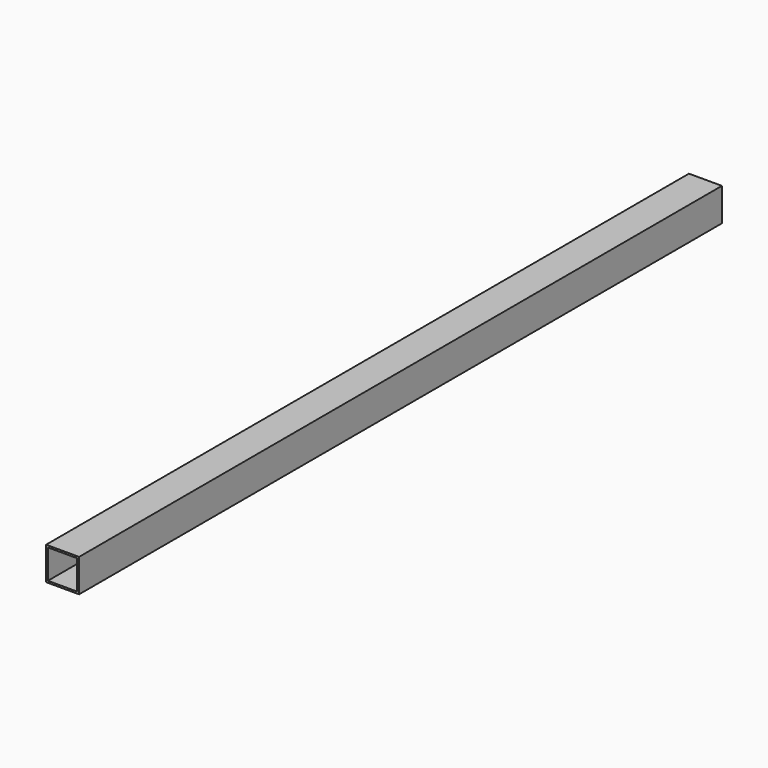
from build123d import *

# Parameters (mm, degrees)
F0_W     = 28.75
F0_H     = 28.75
F1_DEPTH = 700
F2_T     = -1.6


with BuildPart() as f1:
    # F0 (on Front) → F1 (new body)
    with BuildSketch(Plane.XZ):
        Rectangle(F0_W, F0_H)
    extrude(amount=F1_DEPTH)

    # F2
    f2_openings = [f1.faces().sort_by_distance(p)[0] for p in [
        (0, 0, 0),
        (0, -700, 0),
    ]]
    offset(amount=F2_T, openings=f2_openings)


solid = f1.part
